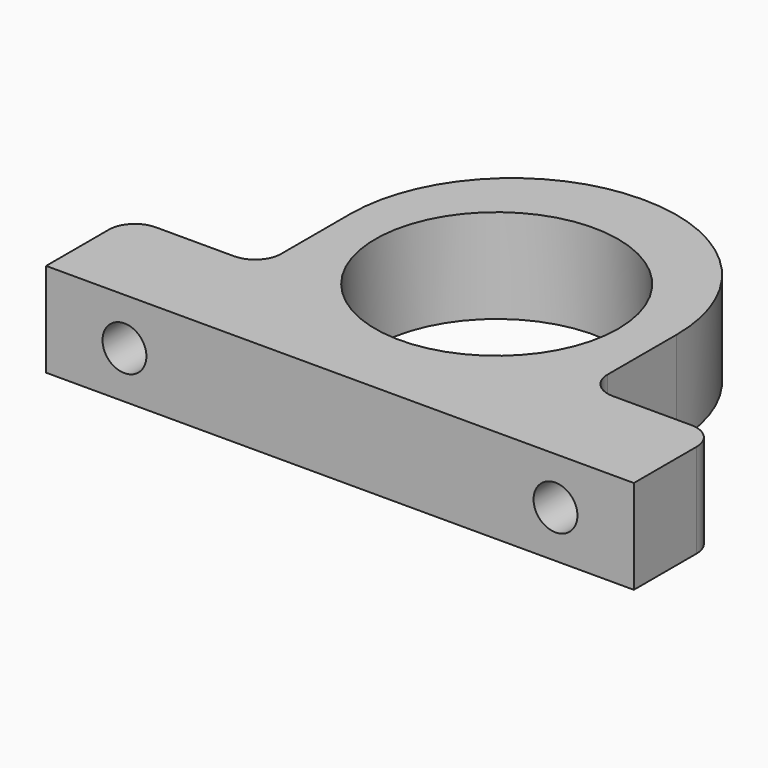
from build123d import *

# Parameters (mm, degrees)
BOX_W           = 45
BOX_H           = 29
BOX_DEPTH       = 7.2
SKETCH_R        = 1.68
POCKET_DEPTH    = 29.001
SKETCH001_R     = 9.3
SKETCH001_W     = 10
SKETCH001_H     = 21
POCKET001_DEPTH = 8
FILLET_R        = 2
FILLET001_R     = 12.4


with BuildPart() as part:
    # Box → Box (new body)
    with BuildSketch(Plane.XY):
        with Locations((22.5, 14.5)):
            Rectangle(BOX_W, BOX_H)
    extrude(amount=BOX_DEPTH)

    # Sketch → Pocket (cut, through all)
    with BuildSketch(Plane.XZ):
        with Locations((6, 3.6)):
            Circle(SKETCH_R)
        with Locations((39, 3.6)):
            Circle(SKETCH_R)
    extrude(amount=-POCKET_DEPTH, mode=Mode.SUBTRACT)

    # Sketch001 → Pocket001 (cut)
    with BuildSketch(Plane.XY.offset(7.2)):
        with Locations((22.5, 15)):
            Circle(SKETCH001_R)
        with Locations((5, 18.5)):
            Rectangle(SKETCH001_W, SKETCH001_H)
        with Locations((40, 18.5)):
            Rectangle(SKETCH001_W, SKETCH001_H)
    extrude(amount=-POCKET001_DEPTH, mode=Mode.SUBTRACT)

    # Fillet
    fillet_edges = [part.edges().sort_by_distance(p)[0] for p in [
        (45, 8, 3.6),
        (35, 8, 3.6),
        (10, 8, 3.6),
        (0, 8, 3.6),
    ]]
    fillet(fillet_edges, radius=FILLET_R)

    # Fillet001
    fillet001_edges = [part.edges().sort_by_distance(p)[0] for p in [
        (10, 29, 3.6),
        (35, 29, 3.6),
    ]]
    fillet(fillet001_edges, radius=FILLET001_R)


solid = part.part
